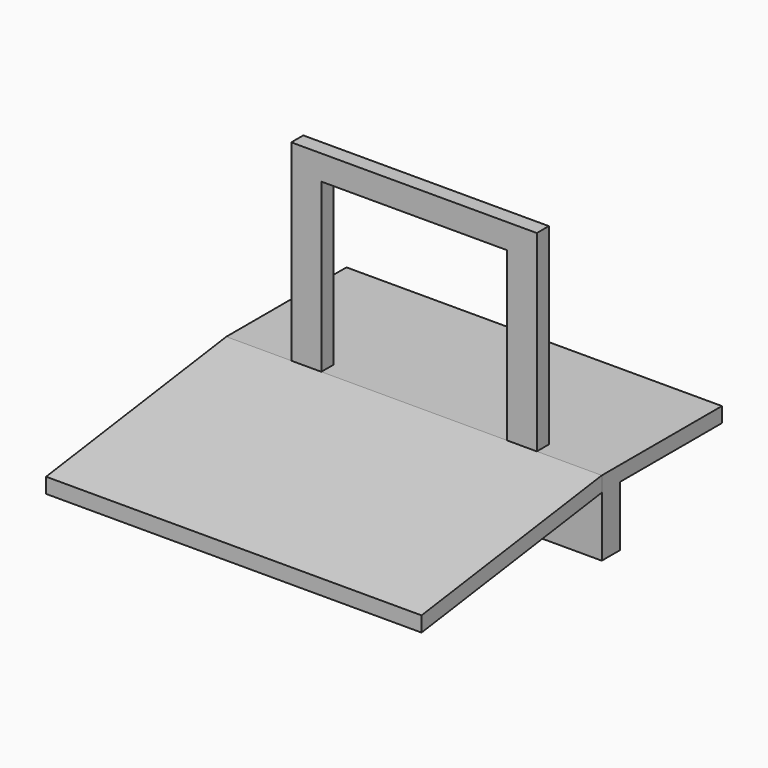
from build123d import *

# Parameters (mm, degrees)
F1_DEPTH      = 200
F3_DEPTH      = 2500
F5_DEPTH      = 2500
F5_DEPTH_BACK = 2500


with BuildPart() as f1:
    # F0 (on Front) → F1 (new body)
    with BuildSketch(Plane.XZ):
        Polygon((-1235, 2230), (1235, 2230), (1235, 0), (1635, 0), (1635, 2560), (-1635, 2560), (-1635, 0), (-1235, 0), align=None)
    extrude(amount=-F1_DEPTH)


with BuildPart() as f3:
    # F2 (on Right) → F3 (new body, symmetric)
    with BuildSketch(Plane.YZ):
        Polygon((0, -201.9655145037), (0, 0), (-3000, -421.6225041072), (-3000, -623.5880186109), align=None)
    extrude(amount=F3_DEPTH, both=True)


with BuildPart() as f5:
    # F4 (on Right) → F5 (new body, two sides)
    with BuildSketch(Plane.YZ) as f5_sk:
        Polygon((2000, 0), (0, 0), (0, -1000), (300, -1000), (300, -200), (2000, -200), align=None)
    extrude(amount=-F5_DEPTH)
    extrude(f5_sk.sketch, amount=F5_DEPTH_BACK)


solid = Compound([f1.part, f3.part, f5.part])
